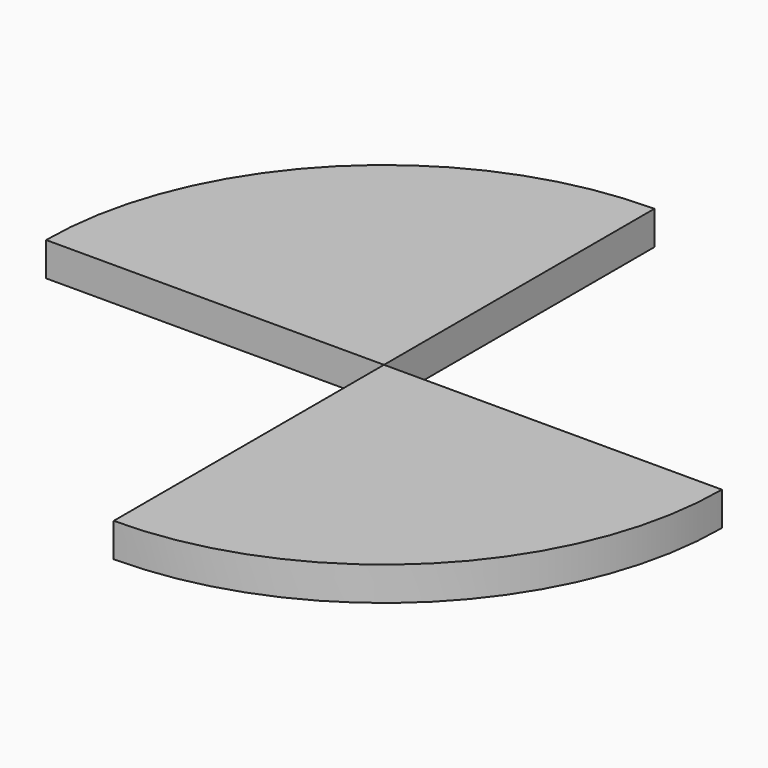
from build123d import *

# Parameters (mm, degrees)
F1_DEPTH = 0.5


with BuildPart() as f1:
    # F0 (on Top) → F1 (new body)
    with BuildSketch(Plane.XY):
        with BuildLine():
            Line((0, 0), (0, 5))
            ThreePointArc((0, 5), (-3.5355339059, 3.5355339059), (-5, 0))
            Line((-5, 0), (0, 0))
        make_face()
    extrude(amount=F1_DEPTH)


with BuildPart() as f1b:
    # F0 (on Top) → F1, piece 2 (new body)
    with BuildSketch(Plane.XY):
        with BuildLine():
            ThreePointArc((0, -5), (3.5355339059, -3.5355339059), (5, 0))
            Line((5, 0), (0, 0))
            Line((0, 0), (0, -5))
        make_face()
    extrude(amount=F1_DEPTH)


solid = Compound([f1.part, f1b.part])
